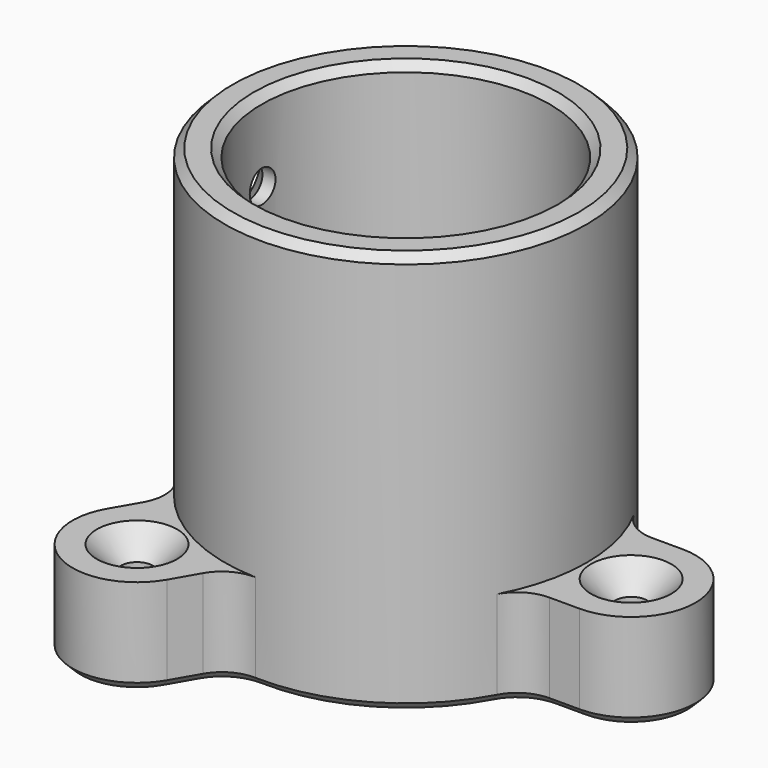
from build123d import *

# Parameters (mm, degrees)
SKETCH_R           = 22.5
PAD_DEPTH          = 50
SKETCH002_R        = 2
PAD001_DEPTH       = 12
POLARPATTERN_COUNT = 3
CHAMFER_SIZE       = 3
FILLET_R           = 5
SKETCH001_R        = 17.9
POCKET_DEPTH       = 45
CHAMFER001_SIZE    = 1
CHAMFER002_SIZE    = 1
SKETCH003_R        = 2
POCKET001_DEPTH    = 22.501
CHAMFER003_SIZE    = 3


with BuildPart() as part:
    # Sketch (on XY_Plane of Origin) → Pad (new body)
    with BuildSketch(Plane.XY):
        Circle(SKETCH_R)
    extrude(amount=PAD_DEPTH)

    # Sketch002 (on Face2 of Pad) → Pad001 (join)
    with BuildSketch(Plane(origin=(0, 0, 0), x_dir=(1, 0, 0), z_dir=(0, 0, -1))):
        with BuildLine():
            ThreePointArc((0, 8), (-8, 0), (0, -8))
            Line((0, -8), (28, -8))
            ThreePointArc((28, -8), (36, 0), (28, 8))
            Line((0, 8), (28, 8))
        make_face()
        with Locations((28, 0)):
            Circle(SKETCH002_R, mode=Mode.SUBTRACT)
    pad001 = extrude(amount=-PAD001_DEPTH)

    # PolarPattern: Pad001 ×3 about axis
    polarpattern_axis = Axis((0, 0, 0), (0, 0, -1))
    for i in range(1, POLARPATTERN_COUNT):
        add(pad001.rotate(polarpattern_axis, i * 360 / POLARPATTERN_COUNT))

    # Chamfer
    chamfer_edges = [part.edges().sort_by_distance(p)[0] for p in [
        (26, 0, 12),
        (-13, 22.51666, 12),
        (-13, -22.51666, 12),
    ]]
    chamfer(chamfer_edges, length=CHAMFER_SIZE)

    # Fillet
    fillet_edges = [part.edges().sort_by_distance(p)[0] for p in [
        (21.029741, 8, 6),
        (-3.586667, 22.21229, 6),
        (-17.443074, 14.21229, 6),
        (-17.443074, -14.21229, 6),
        (-3.586667, -22.21229, 6),
        (21.029741, -8, 6),
    ]]
    fillet(fillet_edges, radius=FILLET_R)

    # Sketch001 (on Face3 of Pad) → Pocket (cut)
    with BuildSketch(Plane.XY.offset(50)):
        Circle(SKETCH001_R)
    extrude(amount=-POCKET_DEPTH, mode=Mode.SUBTRACT)

    # Chamfer001
    chamfer001_edges = [part.edges().sort_by_distance(p)[0] for p in [
        (-22.5, 0, 50),
        (-17.9, 0, 50),
    ]]
    chamfer(chamfer001_edges, length=CHAMFER001_SIZE)

    # Chamfer002
    chamfer002_edges = [part.edges().sort_by_distance(p)[0] for p in [
        (11.25, 19.485572, 0),
        (21.665965, 8.709418, 0),
        (-3.290405, 23.117985, 0),
        (26.116621, 8, 0),
        (-6.130107, 26.617657, 0),
        (36, 0, 0),
        (-18, 31.176915, 0),
        (26.116621, -8, 0),
        (-19.986514, 18.617657, 0),
        (21.665965, -8.709418, 0),
        (-18.37556, 14.408567, 0),
        (11.25, -19.485572, 0),
        (-22.5, 0, 0),
        (-3.290405, -23.117985, 0),
        (-18.37556, -14.408567, 0),
        (-6.130107, -26.617657, 0),
        (-19.986514, -18.617657, 0),
        (-18, -31.176915, 0),
        (-13, 22.51666, 0),
        (-13, -22.51666, 0),
        (26, 0, 0),
    ]]
    chamfer(chamfer002_edges, length=CHAMFER002_SIZE)

    # Sketch003 → Pocket001 (cut, through all)
    with BuildSketch(Plane.YZ):
        with Locations((0, 20)):
            Circle(SKETCH003_R)
        with Locations((0, 40)):
            Circle(SKETCH003_R)
    extrude(amount=-POCKET001_DEPTH, mode=Mode.SUBTRACT)

    # Chamfer003
    chamfer003_edges = [part.edges().sort_by_distance(p)[0] for p in [
        (-22.410935, -2, 40),
        (-22.410935, -2, 20),
    ]]
    chamfer(chamfer003_edges, length=CHAMFER003_SIZE)


solid = part.part
